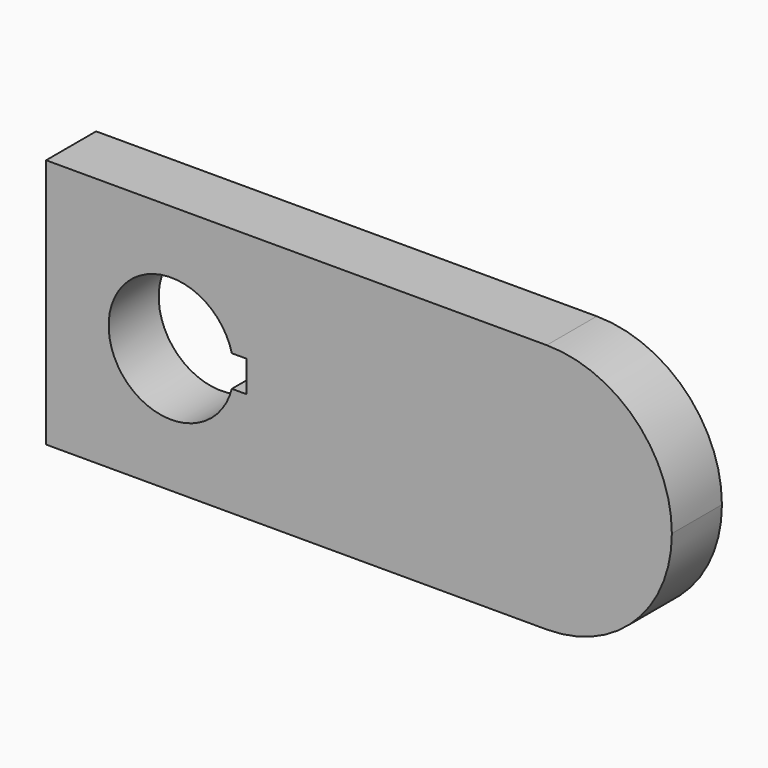
from build123d import *

# Parameters (mm, degrees)
F1_DEPTH = 10


with BuildPart() as f1:
    # F0 (on Front) → F1 (new body)
    with BuildSketch(Plane.XZ):
        with BuildLine():
            Line((-20, 20), (-20, -20))
            Line((-20, -20), (60, -20))
            ThreePointArc((60, -20), (74.142136, -14.142136), (80, 0))
            ThreePointArc((80, 0), (74.142136, 14.142136), (60, 20))
            Line((60, 20), (-20, 20))
        make_face()
        with BuildLine():
            ThreePointArc((9.682458, -2.5), (-10, 0), (9.682458, 2.5))
            Line((9.682458, 2.5), (12, 2.5))
            Line((12, 2.5), (12, -2.5))
            Line((12, -2.5), (9.682458, -2.5))
        make_face(mode=Mode.SUBTRACT)
    extrude(amount=F1_DEPTH)


solid = f1.part
